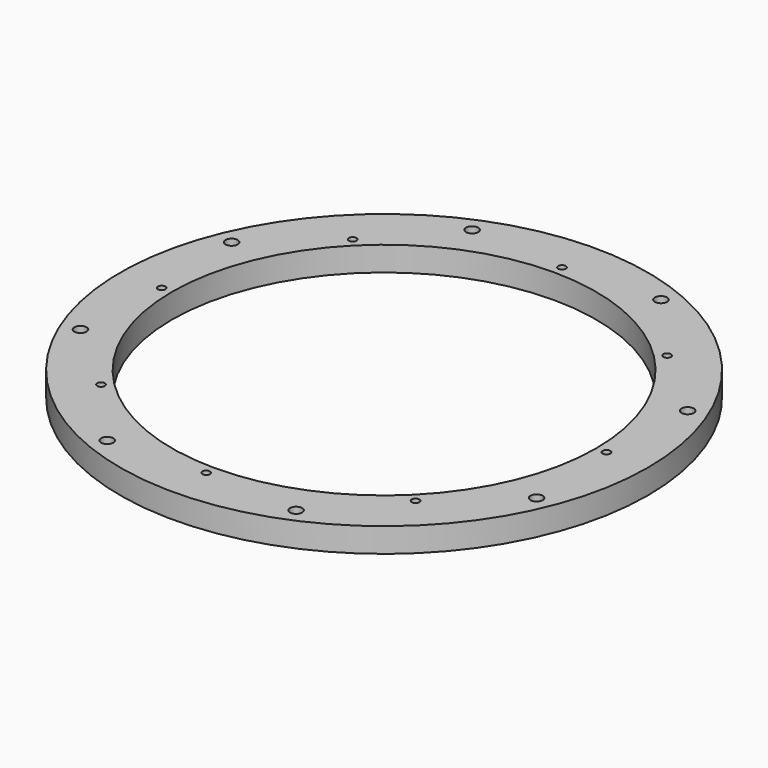
from build123d import *

# Parameters (mm, degrees)
SKETCH001_R       = 108
SKETCH001_R_2     = 86.75
SKETCH001_R_3     = 2.5
PAD_DEPTH         = 10
SKETCH_R          = 1.5625
POCKET_DEPTH      = 10.001
POCKET_DEPTH_BACK = 0.001


with BuildPart() as part:
    # Sketch001 → Pad (new body)
    with BuildSketch(Plane(origin=(0, 0, 0), x_dir=(1, 0, 0), z_dir=(0, 0, -1))):
        Circle(SKETCH001_R)
        Circle(SKETCH001_R_2, mode=Mode.SUBTRACT)
        with Locations((38.651027, 93.311833)):
            Circle(SKETCH001_R_3, mode=Mode.SUBTRACT)
        with Locations((93.311833, 38.651027)):
            Circle(SKETCH001_R_3, mode=Mode.SUBTRACT)
        with Locations((93.311833, -38.651027)):
            Circle(SKETCH001_R_3, mode=Mode.SUBTRACT)
        with Locations((38.651027, -93.311833)):
            Circle(SKETCH001_R_3, mode=Mode.SUBTRACT)
        with Locations((-38.651027, 93.311833)):
            Circle(SKETCH001_R_3, mode=Mode.SUBTRACT)
        with Locations((-93.311833, 38.651027)):
            Circle(SKETCH001_R_3, mode=Mode.SUBTRACT)
        with Locations((-93.311833, -38.651027)):
            Circle(SKETCH001_R_3, mode=Mode.SUBTRACT)
        with Locations((-38.651027, -93.311833)):
            Circle(SKETCH001_R_3, mode=Mode.SUBTRACT)
    extrude(amount=PAD_DEPTH)

    # Sketch → Pocket (cut, two sides)
    with BuildSketch(Plane.XY) as pocket_sk:
        with Locations((64.346717, 64.346717)):
            Circle(SKETCH_R)
        with Locations((0, 91)):
            Circle(SKETCH_R)
        with Locations((91, 0)):
            Circle(SKETCH_R)
        with Locations((64.346717, -64.346717)):
            Circle(SKETCH_R)
        with Locations((0, -91)):
            Circle(SKETCH_R)
        with Locations((-91, 0)):
            Circle(SKETCH_R)
        with Locations((-64.346717, -64.346717)):
            Circle(SKETCH_R)
        with Locations((-64.346717, 64.346717)):
            Circle(SKETCH_R)
    extrude(amount=-POCKET_DEPTH, mode=Mode.SUBTRACT)
    extrude(pocket_sk.sketch, amount=POCKET_DEPTH_BACK, mode=Mode.SUBTRACT)


solid = part.part
